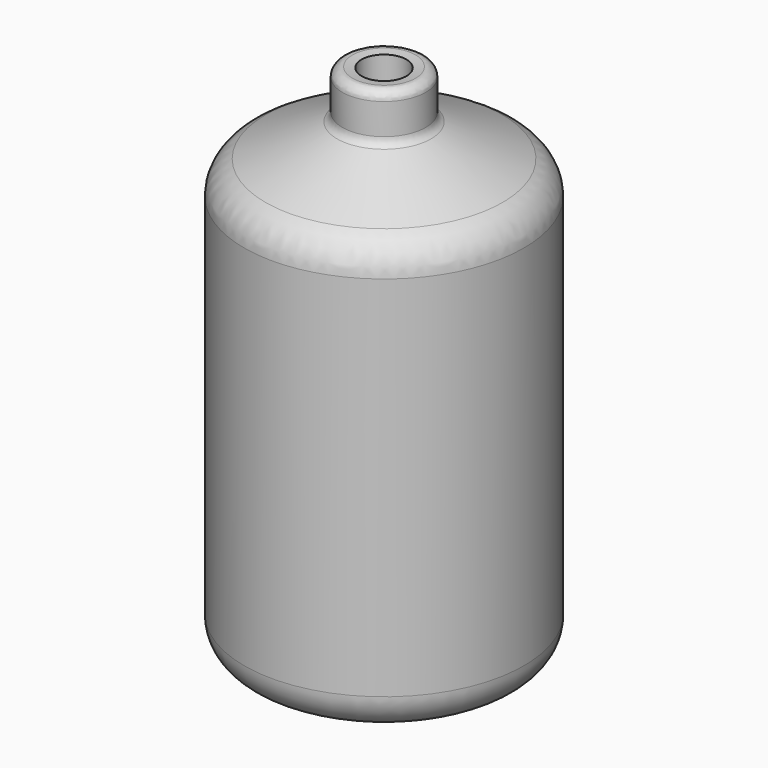
from build123d import *

# Parameters (mm, degrees)
F2_R = 2.54
F3_R = 0.635
F4_R = 0.635


with BuildPart() as f1:
    # F0 (on Front) → F1 (revolve)
    with BuildSketch(Plane.XZ):
        Polygon((-9.756139, 0), (0, 0), (0, 1.523547), (-8.266838, 1.523547), (-8.266838, 28.479891), (-1.564985, 31.905282), (-1.564985, 36.075324), (-2.905356, 36.224253), (-2.905356, 32.947794), (-9.756139, 29.820262), align=None)
    revolve(axis=Axis((0, 0, 0.761774), (0, 0, 1)))

    # F2
    f2_edges = [f1.edges().sort_by_distance(p)[0] for p in [
        (9.756139, 0, 29.820262),
        (9.756139, 0, 0),
        (-9.756139, 0, 14.910131),
    ]]
    fillet(f2_edges, radius=F2_R)

    # F3
    f3_edges = [f1.edges().sort_by_distance(p)[0] for p in [
        (2.905356, 0, 36.224253),
    ]]
    fillet(f3_edges, radius=F3_R)

    # F4
    f4_edges = [f1.edges().sort_by_distance(p)[0] for p in [
        (2.905356, 0, 32.947794),
    ]]
    fillet(f4_edges, radius=F4_R)


solid = f1.part
